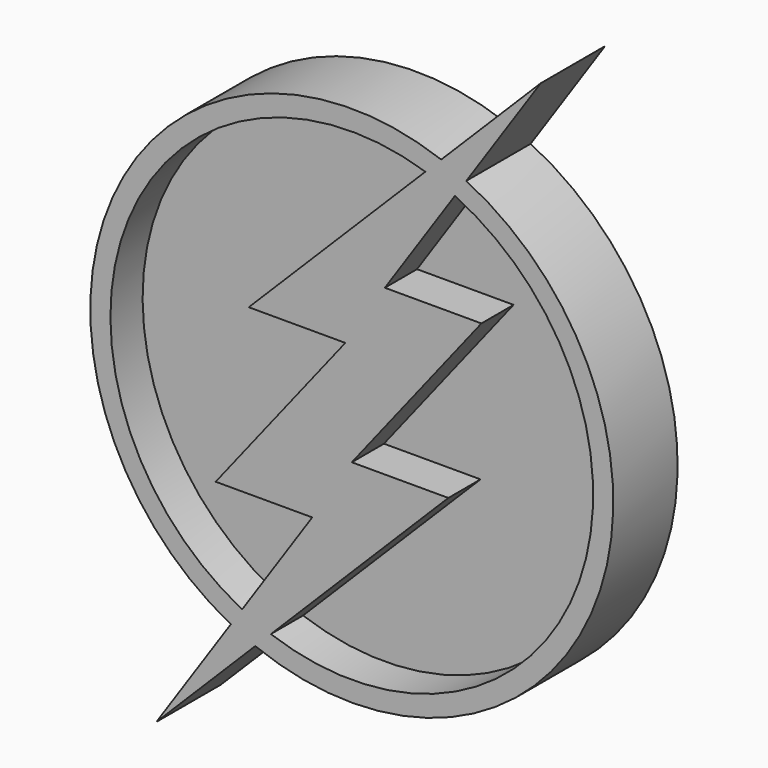
from build123d import *

# Parameters (mm, degrees)
F1_DEPTH = 5
F2_DEPTH = 10


with BuildPart() as f1:
    # F0 (on Front) → F1 (new body)
    with BuildSketch(Plane.XZ):
        with BuildLine():
            Line((-12.80524, 6.605562), (9.148154, 28.571162))
            ThreePointArc((9.148154, 28.571162), (-27.738901, 11.425995), (-13.629171, -26.725376))
            Line((-13.629171, -26.725376), (-4.914949, -13.825553))
            Line((-4.914949, -13.825553), (-16.914949, -13.825553))
            Line((-16.914949, -13.825553), (-0.80524, 6.605562))
            Line((-0.80524, 6.605562), (-12.80524, 6.605562))
        make_face()
        with BuildLine():
            ThreePointArc((-10.056576, -28.264205), (27.728711, -11.450703), (12.816452, 27.124501))
            Line((12.816452, 27.124501), (4.10971, 14.23575))
            Line((4.10971, 14.23575), (16.10971, 14.23575))
            Line((16.10971, 14.23575), (0, -6.195365))
            Line((0, -6.195365), (12, -6.195365))
            Line((12, -6.195365), (-10.056576, -28.264205))
        make_face()
    extrude(amount=F1_DEPTH)


with BuildPart() as f2:
    # F0 (on Front) → F2 (new body)
    with BuildSketch(Plane.XZ):
        Polygon((11.115841, 30.539942), (9.148154, 28.571162), (-12.80524, 6.605562), (-0.80524, 6.605562), (-16.914949, -13.825553), (-4.914949, -13.825553), (-13.629171, -26.725376), (-15.038356, -28.811419), (-24.287384, -42.502925), (-11.996257, -30.204964), (-10.056576, -28.264205), (12, -6.195365), (0, -6.195365), (16.10971, 14.23575), (4.10971, 14.23575), (12.816452, 27.124501), (14.231078, 29.218597), (23.482144, 42.913122), align=None)
        with BuildLine():
            ThreePointArc((-13.629171, -26.725376), (-27.738901, 11.425995), (9.148154, 28.571162))
            Line((9.148154, 28.571162), (11.115841, 30.539942))
            ThreePointArc((11.115841, 30.539942), (-29.740419, 13.105627), (-15.038356, -28.811419))
            Line((-15.038356, -28.811419), (-13.629171, -26.725376))
        make_face()
        with BuildLine():
            ThreePointArc((-11.996257, -30.204964), (29.732785, -13.122938), (14.231078, 29.218597))
            Line((14.231078, 29.218597), (12.816452, 27.124501))
            ThreePointArc((12.816452, 27.124501), (27.728711, -11.450703), (-10.056576, -28.264205))
            Line((-10.056576, -28.264205), (-11.996257, -30.204964))
        make_face()
    extrude(amount=F2_DEPTH)


solid = Compound([f1.part, f2.part])
